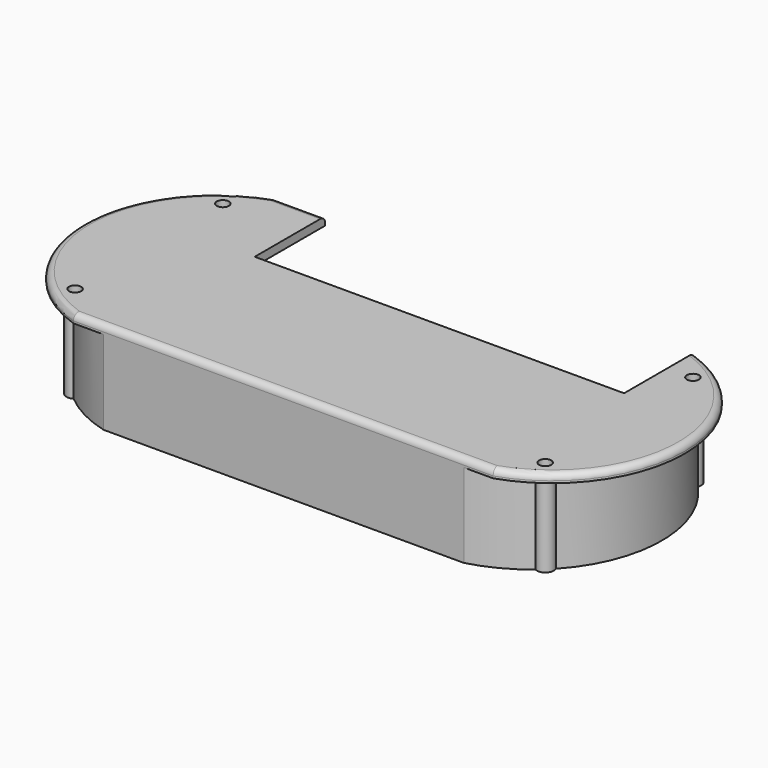
from build123d import *

# Parameters (mm, degrees)
PAD_DEPTH       = 2
SKETCH001_W     = 88
SKETCH001_H     = 20.999999
POCKET_DEPTH    = 5
SKETCH002_R     = 1.45
POCKET001_DEPTH = 5
SKETCH005_R     = 1.45
PAD001_DEPTH    = 20
FILLET_R        = 1.5


with BuildPart() as part:
    # Sketch → Pad (new body)
    with BuildSketch(Plane.XY):
        with BuildLine():
            Line((-50.000004, 29.999999), (49.999993, 29.999999))
            ThreePointArc((49.999993, -29.999999), (71.628774, 0), (49.999993, 29.999999))
            Line((-50.000004, -29.999999), (49.999993, -29.999999))
            ThreePointArc((-50.000004, 29.999999), (-71.628785, 0), (-50.000004, -29.999999))
        make_face()
    extrude(amount=PAD_DEPTH)

    # Sketch001 (on Face6 of Pad) → Pocket (cut)
    with BuildSketch(Plane.XY.offset(2)):
        with Locations((6, 19.5)):
            Rectangle(SKETCH001_W, SKETCH001_H)
    extrude(amount=-POCKET_DEPTH, mode=Mode.SUBTRACT)

    # Sketch002 (on Face5 of Pocket) → Pocket001 (cut)
    with BuildSketch(Plane.XY.offset(2)):
        with Locations((-56, 22)):
            Circle(SKETCH002_R)
        with Locations((-56, -22)):
            Circle(SKETCH002_R)
        with Locations((56, 22)):
            Circle(SKETCH002_R)
        with Locations((56, -22)):
            Circle(SKETCH002_R)
    extrude(amount=-POCKET001_DEPTH, mode=Mode.SUBTRACT)

    # Sketch005 (on Sketch) → Pad001 (join)
    with BuildSketch(Plane(origin=(0, 0, 0), x_dir=(1, 0, 0), z_dir=(0, 0, -1))):
        with BuildLine():
            ThreePointArc((57.824475, -21.180678), (66.188679, -0.02241), (57.855075, 21.147928))
            ThreePointArc((57.855075, 21.147928), (57.421669, 23.451415), (55.098354, 23.761422))
            ThreePointArc((55.098354, 23.761422), (49.395322, 27.553068), (42.998941, 29.999999))
            Line((42.998941, 29.999999), (-42.810254, 29.999999))
            ThreePointArc((-42.810254, 29.999999), (-49.250438, 27.530438), (-54.985149, 23.697971))
            ThreePointArc((-54.985149, 23.697971), (-57.424375, 23.445333), (-57.785293, 21.019763))
            ThreePointArc((-57.785293, 21.019763), (-65.999994, -0.019369), (-57.759009, -21.048219))
            ThreePointArc((-57.759009, -21.048219), (-54.555317, -23.383073), (-57.02749, -20.284114))
            ThreePointArc((-57.042198, 20.268075), (-64.924214, -0.010881), (-57.02749, -20.284114))
            ThreePointArc((-57.042198, 20.268075), (-54.656994, 20.557152), (-54.270591, 22.928536))
            ThreePointArc((-42.606362, 28.999735), (-48.775213, 26.611086), (-54.270591, 22.928536))
            Line((-42.606362, 28.999735), (42.682146, 28.999735))
            ThreePointArc((54.296791, 22.970282), (48.822241, 26.626033), (42.682146, 28.999735))
            ThreePointArc((54.296791, 22.970282), (54.663143, 20.554788), (57.0925, 20.295848))
            ThreePointArc((57.075816, -20.313993), (64.999997, -0.012324), (57.0925, 20.295848))
            ThreePointArc((57.075816, -20.313993), (54.486491, -23.307399), (57.824475, -21.180678))
        make_face()
        with Locations((-56.041981, 22)):
            Circle(SKETCH005_R, mode=Mode.SUBTRACT)
        with Locations((56.045663, 22)):
            Circle(SKETCH005_R, mode=Mode.SUBTRACT)
        with Locations((56, -22)):
            Circle(SKETCH005_R, mode=Mode.SUBTRACT)
        with Locations((-56, -22)):
            Circle(SKETCH005_R, mode=Mode.SUBTRACT)
    extrude(amount=PAD001_DEPTH)

    # Fillet
    fillet_edges = [part.edges().sort_by_distance(p)[0] for p in [
        (-71.628785, 0, 2),
        (-44.000002, 29.999999, 2),
        (-5e-06, -29.999999, 2),
        (71.628774, -4e-06, 2),
    ]]
    fillet(fillet_edges, radius=FILLET_R)


solid = part.part
